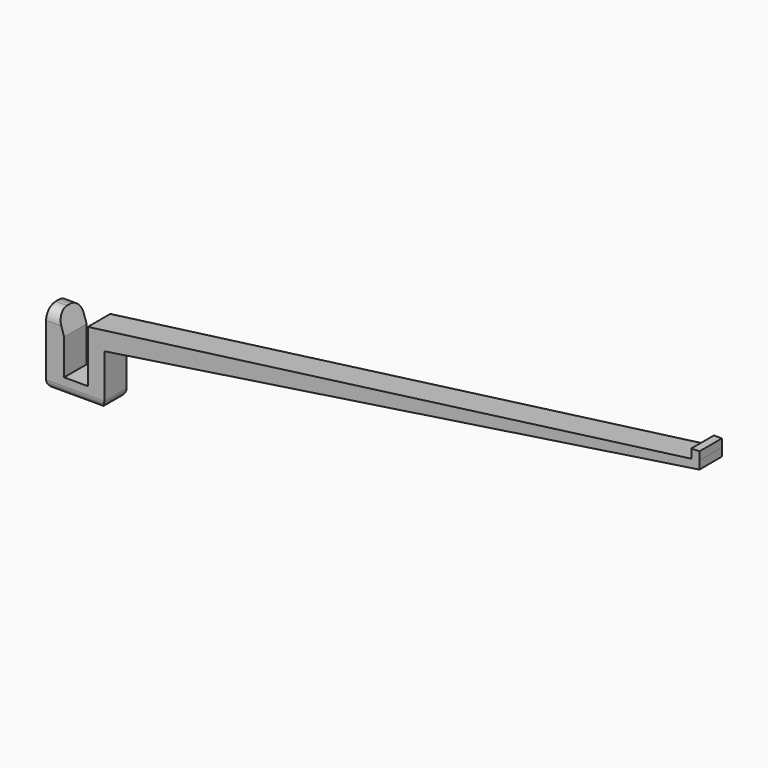
from build123d import *

# Parameters (mm, degrees)
F1_DEPTH = 3.5
F2_R     = 3
F3_R     = 2


with BuildPart() as f1:
    # F0 (on Front) → F1 (new body, symmetric)
    with BuildSketch(Plane.XZ):
        Polygon((-27.425614, -11.464781), (-33.325614, -11.464781), (-33.325614, -2.567937), (-35.000614, 2.535219), (-36.675614, 2.535219), (-37.825614, 2.535219), (-37.825614, -2.464781), (-37.825614, -15.464781), (-23.325614, -15.464781), (-23.325614, -6.464781), (-23.325614, -2.464781), (125.013798, 19.793224), (125.0107, 21.793221), (125.0107, 23.793221), (123.0107, 23.793221), (123.0107, 21.527432), (-27.425614, 1.535219), (-27.425614, -2.464781), align=None)
    extrude(amount=F1_DEPTH, both=True)

    # F2
    f2_edges = [f1.edges().sort_by_distance(p)[0] for p in [
        (-36.413114, 3.5, 2.535219),
        (-36.413114, -3.5, 2.535219),
    ]]
    fillet(f2_edges, radius=F2_R)

    # F3
    f3_edges = [f1.edges().sort_by_distance(p)[0] for p in [
        (-37.825614, 0, -15.464781),
        (-30.575614, 3.5, -15.464781),
        (-23.325614, 0, -15.464781),
        (-30.575614, -3.5, -15.464781),
    ]]
    fillet(f3_edges, radius=F3_R)


solid = f1.part
